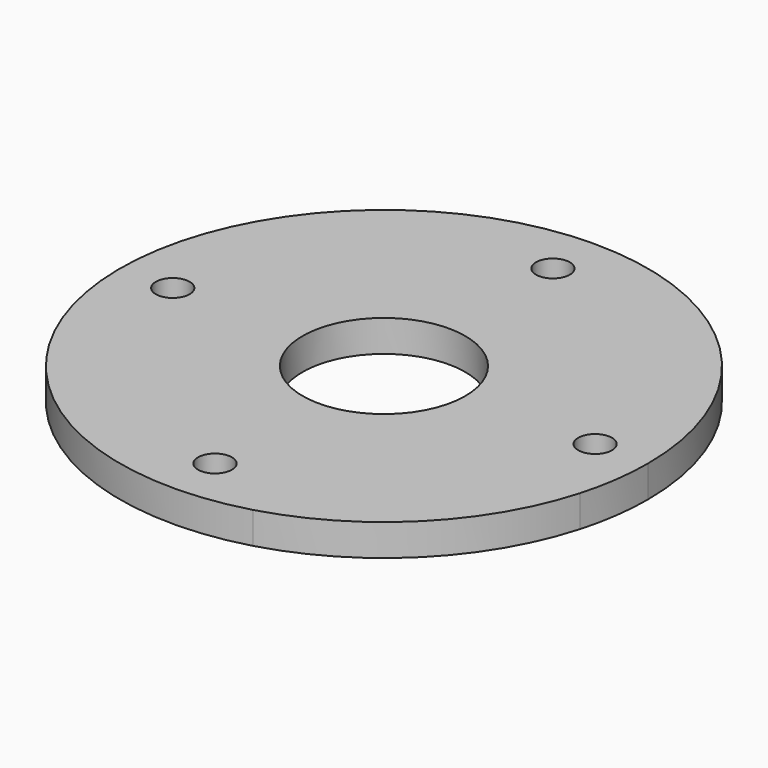
from build123d import *

# Parameters (mm, degrees)
F0_R     = 1.6
F1_DEPTH = 3


with BuildPart() as f1:
    # F0 (on Top) → F1 (new body)
    with BuildSketch(Plane.XY):
        with BuildLine():
            ThreePointArc((19.037183, -8.147739), (21.912225, -8.930193), (24.043754, -6.848203))
            ThreePointArc((24.043754, -6.848203), (24.759784, -3.457322), (25, 0))
            ThreePointArc((25, 0), (-19.952507, 15.063116), (6.848203, -24.043754))
            ThreePointArc((6.848203, -24.043754), (8.930193, -21.912225), (8.147739, -19.037183))
            Line((8.147739, -19.037183), (-5.444722, -5.444722))
            ThreePointArc((-5.444722, -5.444722), (-5.444722, 5.444722), (5.444722, 5.444722))
            Line((5.444722, 5.444722), (19.037183, -8.147739))
        make_face()
        with Locations((0, -20)):
            Circle(F0_R, mode=Mode.SUBTRACT)
        with Locations((-20, 0)):
            Circle(F0_R, mode=Mode.SUBTRACT)
        with Locations((20, 0)):
            Circle(F0_R, mode=Mode.SUBTRACT)
        with Locations((0, 20)):
            Circle(F0_R, mode=Mode.SUBTRACT)
        with BuildLine():
            ThreePointArc((6.848203, -24.043754), (17.67767, -17.67767), (24.043754, -6.848203))
            ThreePointArc((24.043754, -6.848203), (21.912225, -8.930193), (19.037183, -8.147739))
            Line((19.037183, -8.147739), (5.444722, 5.444722))
            ThreePointArc((5.444722, 5.444722), (7.113872, 2.946662), (7.7, 0))
            ThreePointArc((7.7, 0), (2.946662, -7.113872), (-5.444722, -5.444722))
            Line((-5.444722, -5.444722), (8.147739, -19.037183))
            ThreePointArc((8.147739, -19.037183), (8.930193, -21.912225), (6.848203, -24.043754))
        make_face()
    extrude(amount=F1_DEPTH)


solid = f1.part
